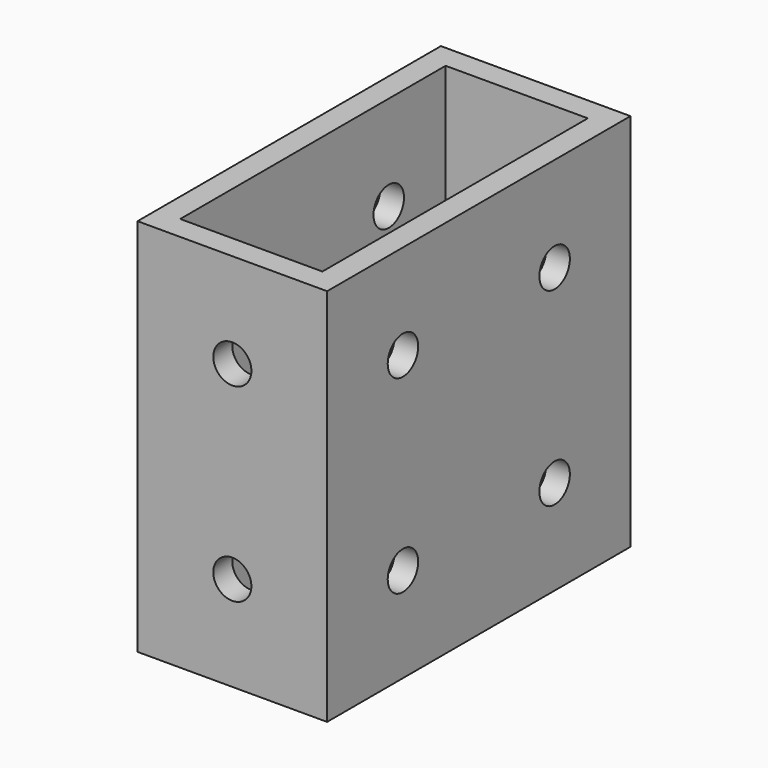
from build123d import *

# Parameters (mm, degrees)
F0_W     = 25.4
F0_H     = 50.8
F1_DEPTH = 50.8
F2_W     = 19.05
F2_H     = 44.45
F3_DEPTH = 50.8
F5_D     = 5.1054
F7_D     = 5.1054


with BuildPart() as f1:
    # F0 (on Top) → F1 (new body)
    with BuildSketch(Plane.XY):
        with Locations((0.627795, 9.72153)):
            Rectangle(F0_W, F0_H)
    extrude(amount=F1_DEPTH)

    # F2 (on face) → F3 (cut)
    with BuildSketch(Plane.XY.offset(50.8)):
        with Locations((0.627795, 9.72153)):
            Rectangle(F2_W, F2_H)
    extrude(amount=-F3_DEPTH, mode=Mode.SUBTRACT)

    # F5 (through all)
    with Locations(Plane.YZ.offset(13.327795)):
        with Locations((-2.97847, 38.1), (-2.97847, 12.7), (22.42153, 38.1), (22.42153, 12.7)):
            Hole(F5_D / 2)

    # F7 (through all)
    with Locations(Plane(origin=(0, 35.12153, 0), x_dir=(-1, 0, 0), z_dir=(0, 1, 0))):
        with Locations((-0.627795, 38.1), (-0.627795, 12.7)):
            Hole(F7_D / 2)


solid = f1.part
